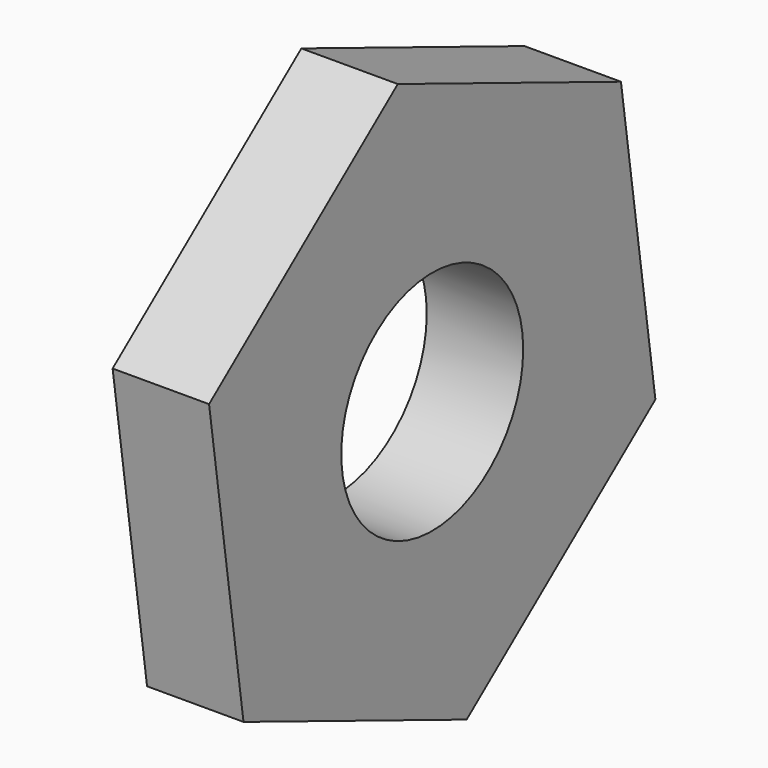
from build123d import *

# Parameters (mm, degrees)
F0_R     = 29.472947
F1_DEPTH = 25


with BuildPart() as f1:
    # F0 (on Right) → F1 (new body)
    with BuildSketch(Plane.YZ):
        Polygon((11.157972, -77.0498), (72.30607, -28.861813), (61.148098, 48.187987), (-11.157972, 77.0498), (-72.30607, 28.861813), (-61.148098, -48.187987), align=None)
        Circle(F0_R, mode=Mode.SUBTRACT)
    extrude(amount=F1_DEPTH)


solid = f1.part
